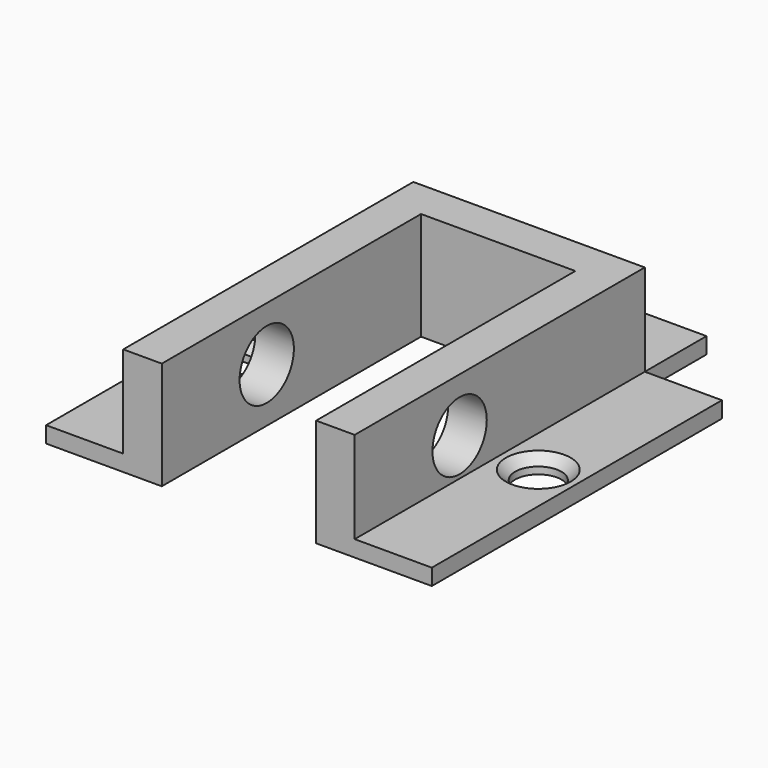
from build123d import *

# Parameters (mm, degrees)
F1_DEPTH = 8.89
F2_R     = 2.794
F3_DEPTH = 20.32
F0_W     = 6.35
F0_H     = 29.845
F0_R     = 1.905
F0_W_2   = 19.05
F0_H_2   = 6.35
F4_DEPTH = 1.3335
F5_SIZE  = 0.762


with BuildPart() as f1:
    # F0 (on Top) → F1 (new body)
    with BuildSketch(Plane.XY):
        Polygon((0, 29.845), (0, 0), (3.175, 0), (3.175, 26.67), (15.875, 26.67), (15.875, 0), (19.05, 0), (19.05, 29.845), align=None)
    extrude(amount=F1_DEPTH)

    # F2 (on Right) → F3 (cut)
    with BuildSketch(Plane.YZ):
        with Locations((10.795, 4.445)):
            Circle(F2_R)
    extrude(amount=F3_DEPTH, mode=Mode.SUBTRACT)

    # F0 (on Top) → F4 (join)
    with BuildSketch(Plane.XY):
        with Locations((-3.175, 14.9225)):
            Rectangle(F0_W, F0_H)
        with Locations((-3.175, 14.9225)):
            Circle(F0_R, mode=Mode.SUBTRACT)
        with Locations((9.525, 33.02)):
            Rectangle(F0_W_2, F0_H_2)
        with Locations((9.525, 33.02)):
            Circle(F0_R, mode=Mode.SUBTRACT)
        with Locations((22.225, 14.9225)):
            Rectangle(F0_W, F0_H)
        with Locations((22.225, 14.9225)):
            Circle(F0_R, mode=Mode.SUBTRACT)
    extrude(amount=F4_DEPTH)

    # F5
    f5_edges = [f1.edges().sort_by_distance(p)[0] for p in [
        (20.32, 14.9225, 1.3335),
        (-5.08, 14.9225, 1.3335),
        (7.62, 33.02, 1.3335),
    ]]
    chamfer(f5_edges, length=F5_SIZE)


solid = f1.part
